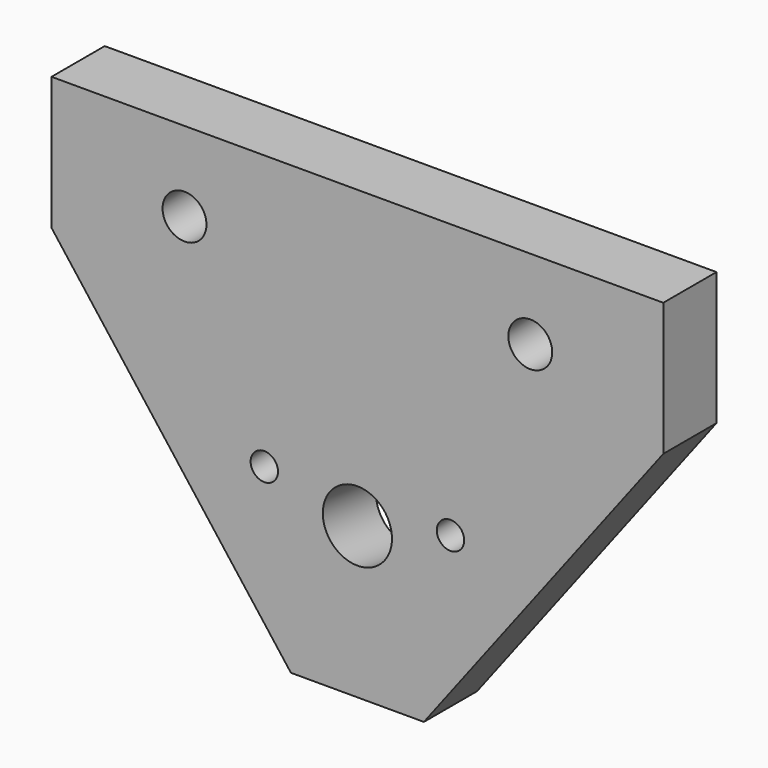
from build123d import *

# Parameters (mm, degrees)
F0_R     = 13
F0_R_2   = 5.15
F0_R_3   = 8.25
F1_DEPTH = 25
F4_R     = 13
F5_DEPTH = 50


with BuildPart() as f1:
    # F0 (on Front) → F1 (new body)
    with BuildSketch(Plane.XZ):
        Polygon((-115, 65), (-25, -53), (25, -53), (115, 65), (115, 115), (-115, 115), align=None)
        Circle(F0_R, mode=Mode.SUBTRACT)
        with Locations((-35, 12)):
            Circle(F0_R_2, mode=Mode.SUBTRACT)
        with Locations((35, 12)):
            Circle(F0_R_2, mode=Mode.SUBTRACT)
        with Locations((-65, 85)):
            Circle(F0_R_3, mode=Mode.SUBTRACT)
        with Locations((65, 85)):
            Circle(F0_R_3, mode=Mode.SUBTRACT)
        Circle(F0_R)
    extrude(amount=F1_DEPTH)

    # F4 (on face) → F5 (cut, symmetric)
    with BuildSketch(Plane(origin=(0, 0, 0), x_dir=(1, 0, 0), z_dir=(0, -0.9890158634, 0.1478094111))):
        Circle(F4_R)
    extrude(amount=F5_DEPTH, both=True, mode=Mode.SUBTRACT)


solid = f1.part
